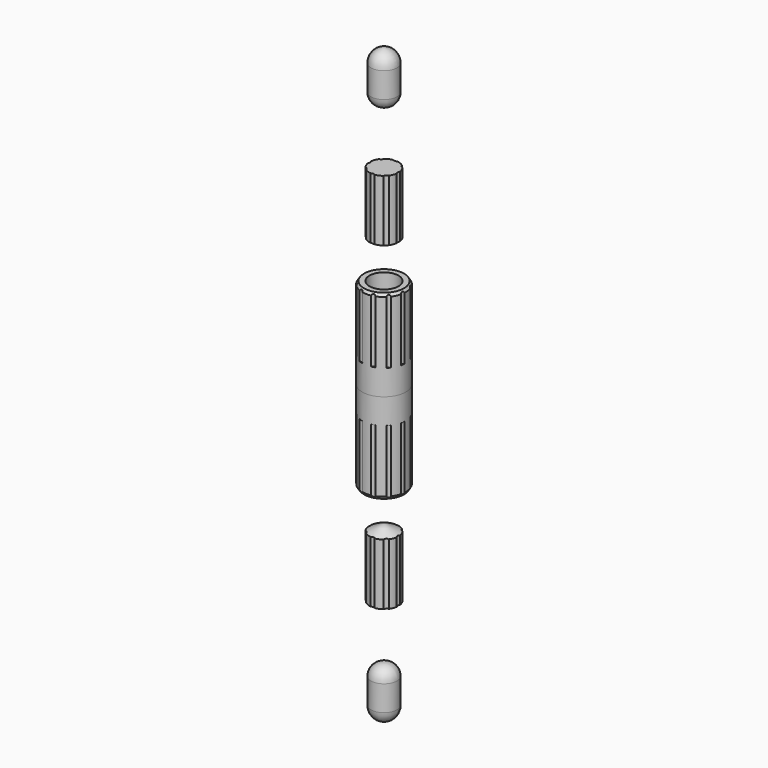
from build123d import *

# Parameters (mm, degrees)
F6_R     = 2.362355
F7_DEPTH = 9
F8_R     = 3.350421
F9_DEPTH = 9


with BuildPart() as f1:
    # F0 (on Front) → F1 (revolve)
    with BuildSketch(Plane.XZ):
        Polygon((0, 1.838037), (0, 0), (3, 0), (3, 12.110225), (2.75, 12.5), (2, 12.5), (2, 3.5), (1.810796, 3.5), align=None)
    revolve(axis=Axis((0, 0, 0.919018), (0, 0, -1)))

    # F8 (on face) → F9 (cut)
    with BuildSketch(Plane.XY.offset(12.5)):
        Circle(F8_R)
        with BuildLine():
            ThreePointArc((-1.364968, 2.761111), (-0.841047, 2.963024), (-0.289177, 3.066472))
            ThreePointArc((-0.289177, 3.066472), (0.025971, 2.877131), (0.344485, 3.060752))
            ThreePointArc((0.344485, 3.060752), (0.894398, 2.947359), (1.414589, 2.736021))
            ThreePointArc((1.414589, 2.736021), (1.577343, 2.406355), (1.944567, 2.388625))
            ThreePointArc((1.944567, 2.388625), (2.345878, 1.995928), (2.669232, 1.536903))
            ThreePointArc((2.669232, 1.536903), (2.627919, 1.171579), (2.927262, 0.958127))
            ThreePointArc((2.927262, 0.958127), (3.052558, 0.410804), (3.076414, -0.150171))
            ThreePointArc((3.076414, -0.150171), (2.84415, -0.435165), (2.980572, -0.776569))
            ThreePointArc((2.980572, -0.776569), (2.790073, -1.304747), (2.506855, -1.789567))
            ThreePointArc((2.506855, -1.789567), (2.157383, -1.903748), (2.087572, -2.264711))
            ThreePointArc((2.087572, -2.264711), (1.641759, -2.606051), (1.141388, -2.860788))
            ThreePointArc((1.141388, -2.860788), (0.785662, -2.767904), (0.531782, -3.033823))
            ThreePointArc((0.531782, -3.033823), (-0.027802, -3.079951), (-0.586462, -3.023729))
            ThreePointArc((-0.586462, -3.023729), (-0.8355, -2.75327), (-1.192845, -2.839717))
            ThreePointArc((-1.192845, -2.839717), (-1.688536, -2.575989), (-2.128114, -2.226657))
            ThreePointArc((-2.128114, -2.226657), (-2.191398, -1.864492), (-2.538752, -1.744021))
            ThreePointArc((-2.538752, -1.744021), (-2.813171, -1.254169), (-2.994105, -0.722638))
            ThreePointArc((-2.994105, -0.722638), (-2.851542, -0.383752), (-3.078623, -0.094611))
            ThreePointArc((-3.078623, -0.094611), (-3.044645, 0.465842), (-2.909489, 1.010814))
            ThreePointArc((-2.909489, 1.010814), (-2.606341, 1.218827), (-2.641053, 1.584837))
            ThreePointArc((-2.641053, 1.584837), (-2.309465, 2.03795), (-1.901131, 2.423339))
            ThreePointArc((-1.901131, 2.423339), (-1.533646, 2.434437), (-1.364968, 2.761111))
        make_face(mode=Mode.SUBTRACT)
    extrude(amount=-F9_DEPTH, mode=Mode.SUBTRACT)

    # F10: F1 across plane


with BuildPart() as f4:
    # F3 (on Front) → F4 (revolve)
    with BuildSketch(Plane.XZ):
        with BuildLine():
            ThreePointArc((1.8, 38.925711), (1.27619, 40.21908), (0, 40.783454))
            Line((0, 40.783454), (0, 33.783454))
            ThreePointArc((0, 33.783454), (1.262364, 34.207412), (1.8, 35.425711))
            Line((1.8, 35.425711), (1.8, 38.925711))
        make_face()
    revolve(axis=Axis((0, 0, 37.283454), (0, 0, -1)))


with BuildPart() as f5:
    # F2 (on Front) → F5 (revolve)
    with BuildSketch(Plane.XZ):
        Polygon((0, 26.27489), (0, 16.906929), (1.99, 17.831135), (1.99, 26.27489), align=None)
    revolve(axis=Axis((0, 0, 21.590909), (0, 0, 1)))

    # F6 (on face) → F7 (cut)
    with BuildSketch(Plane.XY.offset(26.27489)):
        Circle(F6_R)
        with BuildLine():
            ThreePointArc((-1.196578, 1.753532), (-0.825191, 1.955948), (-0.421047, 2.080719))
            ThreePointArc((-0.421047, 2.080719), (-0.012311, 1.884412), (0.393826, 2.086042))
            ThreePointArc((0.393826, 2.086042), (0.799566, 1.966562), (1.173565, 1.769016))
            ThreePointArc((1.173565, 1.769016), (1.323776, 1.341186), (1.753532, 1.196578))
            ThreePointArc((1.753532, 1.196578), (1.955948, 0.825191), (2.080719, 0.421047))
            ThreePointArc((2.080719, 0.421047), (1.884412, 0.012311), (2.086042, -0.393826))
            ThreePointArc((2.086042, -0.393826), (1.966562, -0.799566), (1.769016, -1.173565))
            ThreePointArc((1.769016, -1.173565), (1.341186, -1.323776), (1.196578, -1.753532))
            ThreePointArc((1.196578, -1.753532), (0.825191, -1.955948), (0.421047, -2.080719))
            ThreePointArc((0.421047, -2.080719), (0.012311, -1.884412), (-0.393826, -2.086042))
            ThreePointArc((-0.393826, -2.086042), (-0.799566, -1.966562), (-1.173565, -1.769016))
            ThreePointArc((-1.173565, -1.769016), (-1.323776, -1.341186), (-1.753532, -1.196578))
            ThreePointArc((-1.753532, -1.196578), (-1.955948, -0.825191), (-2.080719, -0.421047))
            ThreePointArc((-2.080719, -0.421047), (-1.884412, -0.012311), (-2.086042, 0.393826))
            ThreePointArc((-2.086042, 0.393826), (-1.966562, 0.799566), (-1.769016, 1.173565))
            ThreePointArc((-1.769016, 1.173565), (-1.341186, 1.323776), (-1.196578, 1.753532))
        make_face(mode=Mode.SUBTRACT)
    extrude(amount=-F7_DEPTH, mode=Mode.SUBTRACT)


with BuildPart() as f1_1:
    add(f1.part)
    add(f1.part.mirror(Plane.XY))


with BuildPart() as f11_1:
    # F11: instance of F5
    add(f5.part.mirror(Plane.XY))


with BuildPart() as f12_1:
    # F12: instance of F4
    add(f4.part.mirror(Plane.XY))


solid = Compound([f4.part, f5.part, f1_1.part, f11_1.part, f12_1.part])
